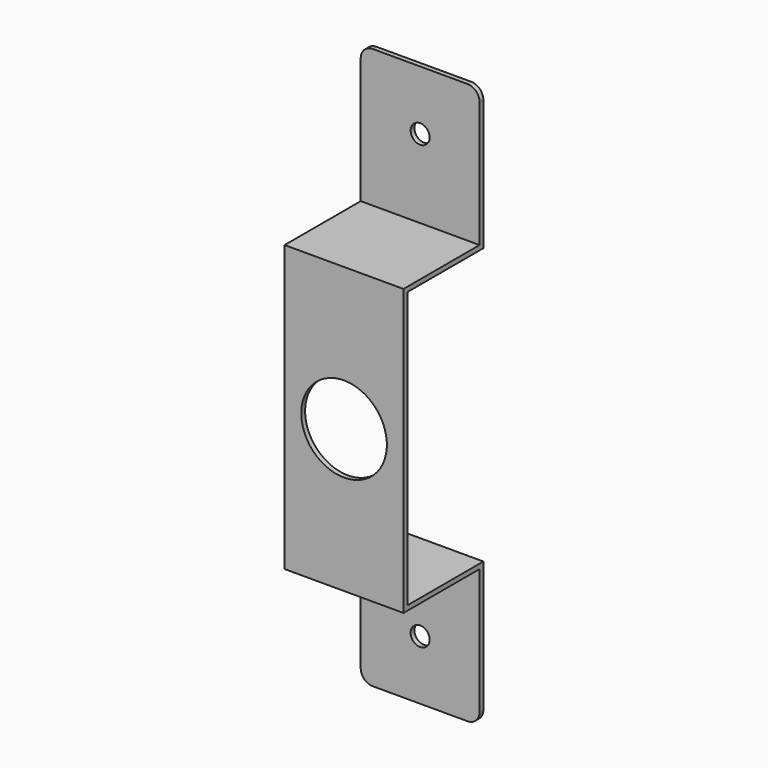
from build123d import *

# Parameters (mm, degrees)
F1_DEPTH = 25.0000008
F2_R     = 2.54
F4_D     = 18
F6_D     = 4


with BuildPart() as f1:
    # F0 (on Right) → F1 (new body)
    with BuildSketch(Plane.YZ):
        Polygon((1, 86.2317622141), (0, 86.2317622141), (0, 57.2317622141), (-20, 57.2317622141), (-20, -2.7682377859), (0, -2.7682377859), (0, -31.7682377859), (1, -31.7682377859), (1, -1.7682377859), (-19, -1.7682377859), (-19, 56.2317622141), (1, 56.2317622141), align=None)
    extrude(amount=-F1_DEPTH)

    # F2
    f2_edges = [f1.edges().sort_by_distance(p)[0] for p in [
        (0, 0.5, 86.231762),
        (-25.000001, 0.5, 86.231762),
        (0, 0.5, -31.768238),
        (-25.000001, 0.5, -31.768238),
    ]]
    fillet(f2_edges, radius=F2_R)

    # F4 (through all)
    with Locations(Plane(origin=(0, 0, 0), x_dir=(1, 0, 0), z_dir=(0, 1, 0))):
        with Locations((-12.5000008, -27.2317622141)):
            Hole(F4_D / 2)

    # F6 (through all)
    with Locations(Plane.XZ):
        with Locations((-12.5000008, 73.7317622141), (-12.5, -19.2682377859)):
            Hole(F6_D / 2)


solid = f1.part
